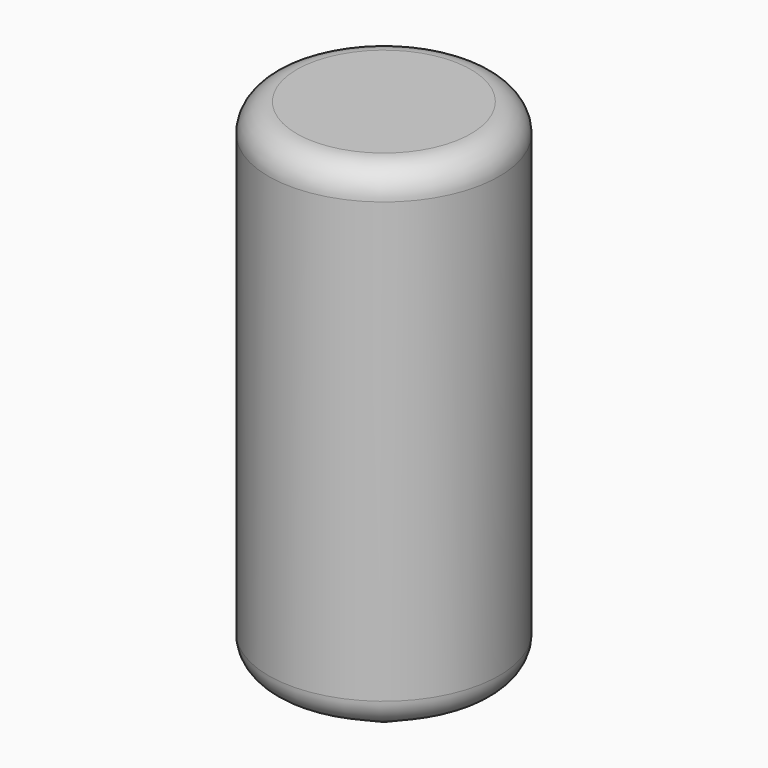
from build123d import *


with BuildPart() as f1:
    # F0 (on Front) → F1 (revolve)
    with BuildSketch(Plane.XZ):
        with BuildLine():
            Line((0, 33.031421), (-6.1468, 33.031421))
            ThreePointArc((-6.1468, 33.031421), (-7.560292, 32.445934), (-8.14578, 31.032441))
            Line((-8.14578, 31.032441), (-8.14578, 0))
            ThreePointArc((-8.14578, 0), (-7.86026, -1.029551), (-7.085264, -1.764995))
            Line((-7.085264, -1.764995), (-0.938464, -5.033306))
            ThreePointArc((-0.938464, -5.033306), (-0.483597, -5.207913), (0, -5.267292))
            Line((0, -5.267292), (0, 33.031421))
        make_face()
    revolve(axis=Axis((0, 0, 13.882065), (0, 0, -1)))


solid = f1.part
